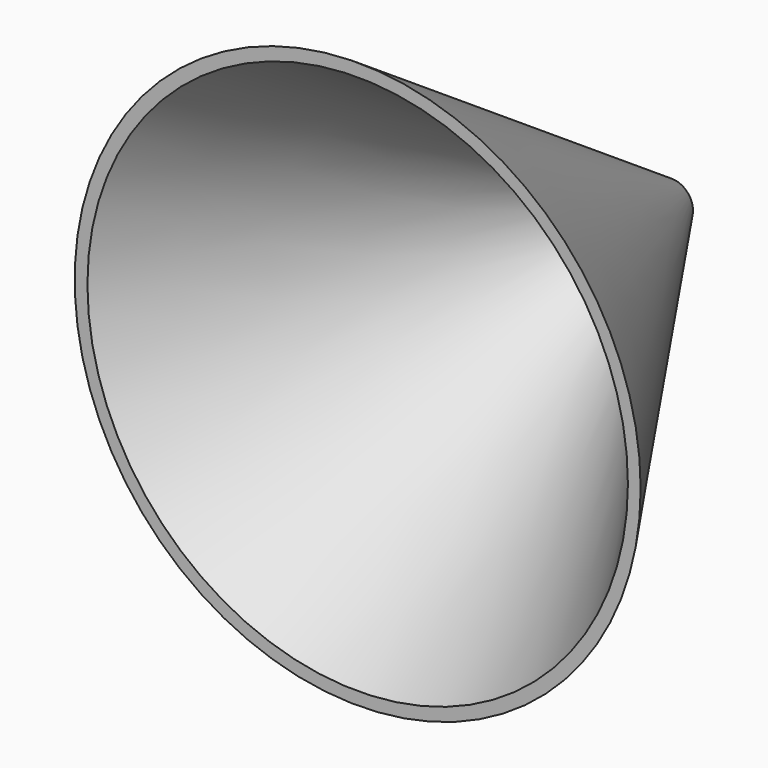
from build123d import *

# Parameters (mm, degrees)
F3_T     = -3.81
F4_R     = 7.62
F5_DEPTH = 33.02


with BuildPart() as f1:
    # F0 (on Top) → F1 (revolve)
    with BuildSketch(Plane.XY):
        Polygon((0, 152.4), (0, 0), (101.6, 0), align=None)
    revolve(axis=Axis((0, 76.2, 0), (0, 1, 0)))

    # F3
    f3_openings = [f1.faces().sort_by_distance(p)[0] for p in [
        (0, 0, 0),
    ]]
    offset(amount=F3_T, openings=f3_openings)

    # F4 (on offset) → F5 (cut)
    with BuildSketch(Plane.XZ.offset(-152.4)):
        Circle(F4_R)
    extrude(amount=F5_DEPTH, mode=Mode.SUBTRACT)


solid = f1.part
